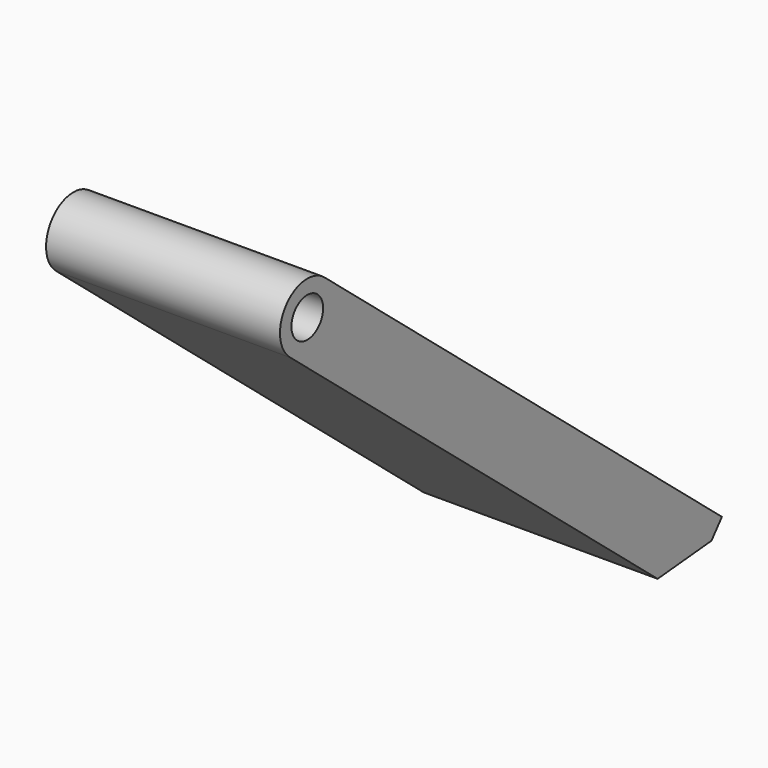
from build123d import *

# Parameters (mm, degrees)
F0_R     = 1.054099
F1_DEPTH = 12.446
F2_SIZE  = 2.54


with BuildPart() as f1:
    # F0 (on Right) → F1 (new body)
    with BuildSketch(Plane.YZ):
        with BuildLine():
            Line((-35.941751, 9.778588), (-9.566826, -12.134136))
            Line((-9.566826, -12.134136), (-7.246763, -9.341626))
            Line((-7.246763, -9.341626), (-33.621687, 12.571098))
            ThreePointArc((-33.621687, 12.571098), (-36.220849, 12.370495), (-35.941751, 9.778588))
        make_face()
        with Locations((-34.823955, 11.209933)):
            Circle(F0_R, mode=Mode.SUBTRACT)
    extrude(amount=F1_DEPTH)

    # F2
    f2_edges = [f1.edges().sort_by_distance(p)[0] for p in [
        (6.223, -9.566826, -12.134136),
    ]]
    chamfer(f2_edges, length=F2_SIZE)


solid = f1.part
